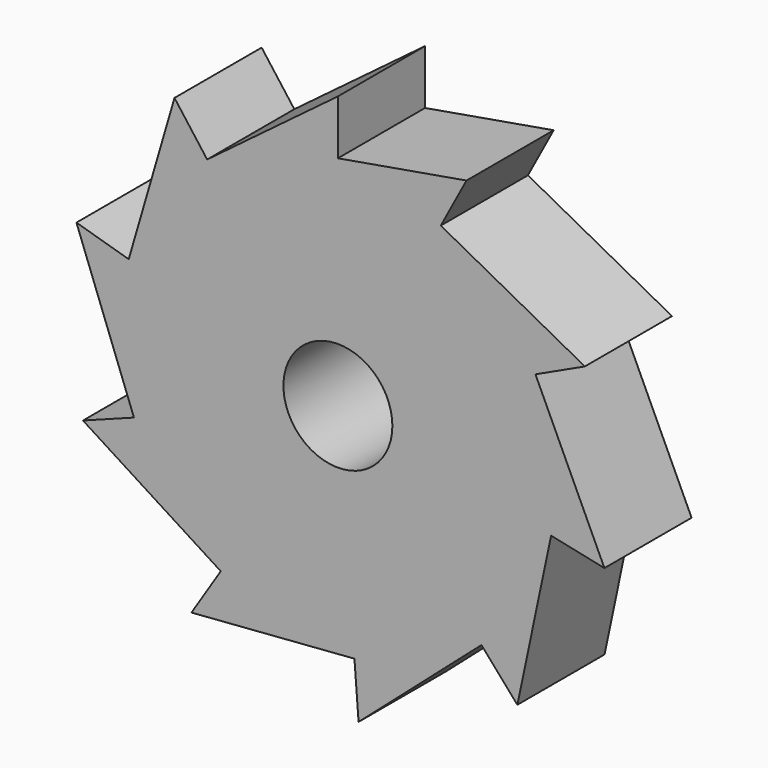
from build123d import *

# Parameters (mm, degrees)
F0_R     = 12.7
F1_DEPTH = 25.4


with BuildPart() as f1:
    # F0 (on Front) → F1 (new body)
    with BuildSketch(Plane.XZ):
        with BuildLine():
            ThreePointArc((49.706296, -10.48447), (50.525834, -5.270681), (50.8, 0))
            ThreePointArc((50.8, 0), (49.599751, 10.977465), (46.055719, 21.436202))
            ThreePointArc((46.055719, 21.436202), (36.913569, 34.900264), (23.982854, 44.782393))
            ThreePointArc((23.982854, 44.782393), (12.36314, 49.272637), (0, 50.8))
            ThreePointArc((0, 50.8), (-16.064371, 48.193112), (-30.48, 40.64))
            ThreePointArc((-30.48, 40.64), (-41.767363, 28.915867), (-48.768, 14.224))
            ThreePointArc((-48.768, 14.224), (-50.763411, -1.927724), (-47.5488, -17.8816))
            ThreePointArc((-47.5488, -17.8816), (-39.454094, -32.000226), (-27.31008, -42.83456))
            ThreePointArc((-27.31008, -42.83456), (-12.36314, -49.272637), (3.852672, -50.653696))
            ThreePointArc((3.852672, -50.653696), (19.673071, -46.835994), (33.474355, -38.211354))
            ThreePointArc((33.474355, -38.211354), (43.840053, -25.664952), (49.706296, -10.48447))
        make_face()
        Circle(F0_R, mode=Mode.SUBTRACT)
        with BuildLine():
            ThreePointArc((-30.48, 40.64), (-16.064371, 48.193112), (0, 50.8))
            Line((0, 50.8), (0, 63.5))
            Line((0, 63.5), (-30.48, 40.64))
        make_face()
        with BuildLine():
            ThreePointArc((-48.768, 14.224), (-41.767363, 28.915867), (-30.48, 40.64))
            Line((-30.48, 40.64), (-38.1, 50.8))
            Line((-38.1, 50.8), (-48.768, 14.224))
        make_face()
        with BuildLine():
            ThreePointArc((-47.5488, -17.8816), (-50.763411, -1.927724), (-48.768, 14.224))
            Line((-48.768, 14.224), (-60.96, 17.78))
            Line((-60.96, 17.78), (-47.5488, -17.8816))
        make_face()
        with BuildLine():
            Line((-59.436, -22.352), (-27.31008, -42.83456))
            ThreePointArc((-27.31008, -42.83456), (-39.454094, -32.000226), (-47.5488, -17.8816))
            Line((-47.5488, -17.8816), (-59.436, -22.352))
        make_face()
        with BuildLine():
            Line((-34.1376, -53.5432), (3.852672, -50.653696))
            ThreePointArc((3.852672, -50.653696), (-12.36314, -49.272637), (-27.31008, -42.83456))
            Line((-27.31008, -42.83456), (-34.1376, -53.5432))
        make_face()
        with BuildLine():
            Line((4.81584, -63.31712), (33.474355, -38.211354))
            ThreePointArc((33.474355, -38.211354), (19.673071, -46.835994), (3.852672, -50.653696))
            Line((3.852672, -50.653696), (4.81584, -63.31712))
        make_face()
        with BuildLine():
            Line((41.842944, -47.764192), (49.706296, -10.48447))
            ThreePointArc((49.706296, -10.48447), (43.840053, -25.664952), (33.474355, -38.211354))
            Line((33.474355, -38.211354), (41.842944, -47.764192))
        make_face()
        with BuildLine():
            ThreePointArc((23.982854, 44.782393), (36.913569, 34.900264), (46.055719, 21.436202))
            Line((46.055719, 21.436202), (57.569649, 26.795252))
            Line((57.569649, 26.795252), (23.982854, 44.782393))
        make_face()
        with BuildLine():
            ThreePointArc((0, 50.8), (12.36314, 49.272637), (23.982854, 44.782393))
            Line((23.982854, 44.782393), (29.978567, 55.977991))
            Line((29.978567, 55.977991), (0, 50.8))
        make_face()
        with BuildLine():
            ThreePointArc((46.055719, 21.436202), (49.599751, 10.977465), (50.8, 0))
            ThreePointArc((50.8, 0), (50.525834, -5.270681), (49.706296, -10.48447))
            Line((49.706296, -10.48447), (62.13287, -13.105587))
            Line((62.13287, -13.105587), (46.055719, 21.436202))
        make_face()
    extrude(amount=F1_DEPTH)


solid = f1.part
